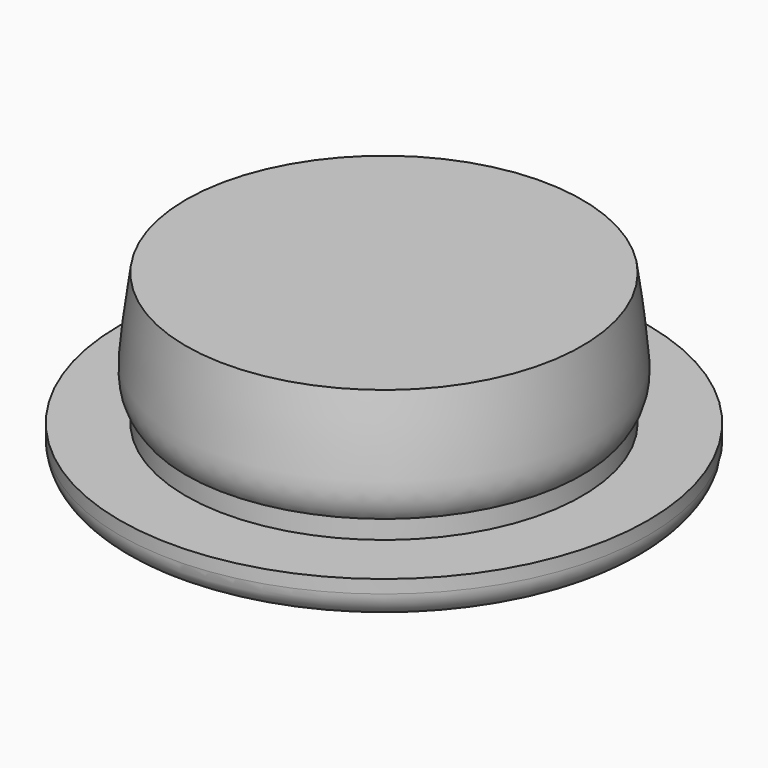
from build123d import *

# Parameters (mm, degrees)
F2_R = 2


with BuildPart() as f1:
    # F0 (on Front) → F1 (revolve)
    with BuildSketch(Plane.XZ):
        with BuildLine():
            Line((0, 0), (0, 13))
            Line((0, 13), (-15, 13))
            add(Edge.make_bspline(
                [(-15, 4.4), (-15.3208951929, 4.8144145235), (-15.874556015, 5.7854230523), (-15.5071685552, 9.2587013818), (-15.237569809, 11.3938553259), (-15, 13)],
                knots=[0, 0, 0, 0, 0.2460647385, 0.6014905212, 1, 1, 1, 1], degree=3))
            Line((-15, 4.4), (-15, 3))
            Line((-15, 3), (-20, 3))
            Line((-20, 3), (-20, 0))
            Line((-20, 0), (0, 0))
        make_face()
    revolve(axis=Axis((0, 0, 6.5), (0, 0, 1)))

    # F2
    f2_edges = [f1.edges().sort_by_distance(p)[0] for p in [
        (20, 0, 0),
    ]]
    fillet(f2_edges, radius=F2_R)


solid = f1.part
